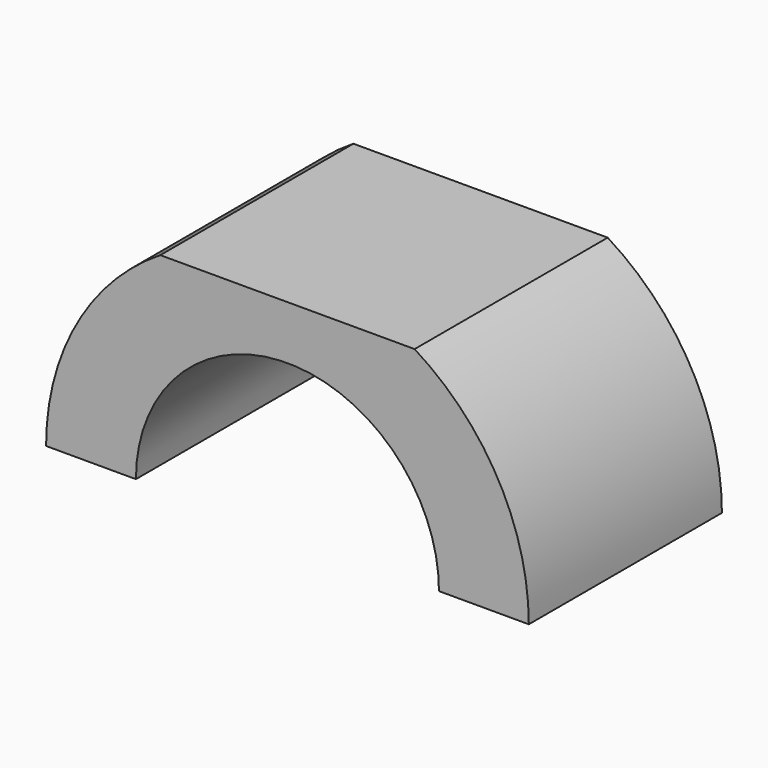
from build123d import *

# Parameters (mm, degrees)
F0_R     = 9
F0_R_2   = 5.65
F1_DEPTH = 9
F3_DEPTH = 25
F5_DEPTH = 25


with BuildPart() as f1:
    # F0 (on Front) → F1 (new body)
    with BuildSketch(Plane.XZ):
        Circle(F0_R)
        Circle(F0_R_2, mode=Mode.SUBTRACT)
    extrude(amount=F1_DEPTH)

    # F2 (on face) → F3 (cut)
    with BuildSketch(Plane.XZ.offset(9)):
        Polygon((9.609743, 0), (-9, 0), (-9.972616, 0), (-9.972616, -10.801357), (9.609743, -10.801357), align=None)
    extrude(amount=-F3_DEPTH, mode=Mode.SUBTRACT)

    # F4 (on face) → F5 (cut)
    with BuildSketch(Plane.XZ.offset(9)):
        Polygon((-7.133957, 7.65), (0, 7.65), (5.867002, 7.65), (5.867002, 11.901876), (-7.133957, 11.901876), align=None)
    extrude(amount=-F5_DEPTH, mode=Mode.SUBTRACT)


solid = f1.part
